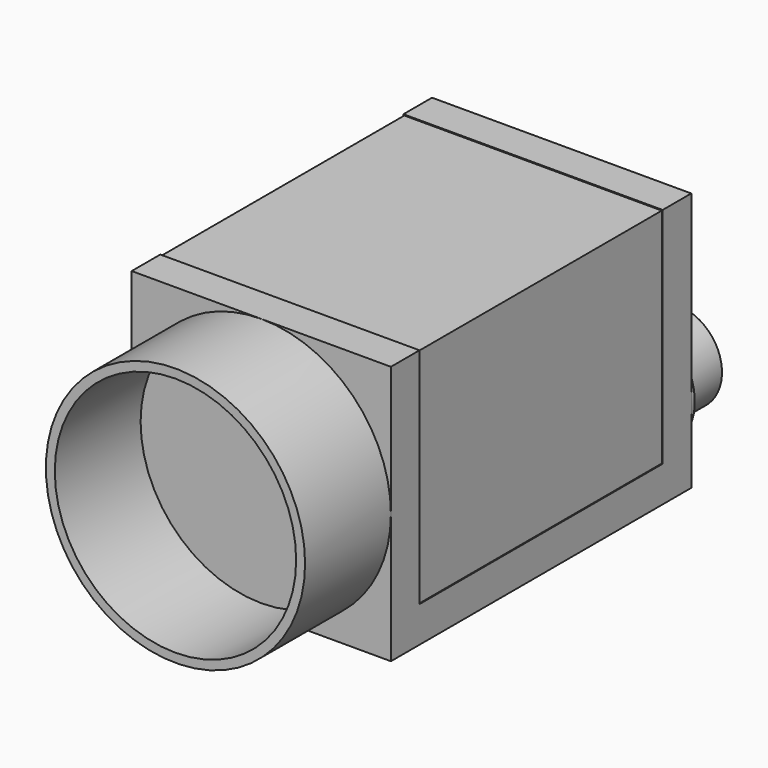
from build123d import *

# Parameters (mm, degrees)
F0_W      = 29
F0_H      = 29
F1_DEPTH  = 42
F2_R      = 14.5
F2_R_2    = 13.5
F3_DEPTH  = 12
F4_W      = 34
F4_H      = 25
F5_DEPTH  = 0.1
F6_W      = 34
F6_H      = 25
F7_DEPTH  = 0.1
F8_W      = 28.9
F8_H      = 34
F9_DEPTH  = 0.1
F11_D     = 3.3
F11_DEPTH = 3
F11_TIP   = 0.9914200214
F13_D     = 2.3
F13_DEPTH = 3
F13_TIP   = 0.6909897119
F14_R     = 6.6
F15_DEPTH = 0.5
F16_W     = 12
F16_H     = 10
F17_DEPTH = 0.5
F19_DEPTH = 10
F20_R     = 5
F20_R_2   = 4.2771578829
F21_DEPTH = 5.8


with BuildPart() as f1:
    # F0 (on Front) → F1 (new body)
    with BuildSketch(Plane.XZ):
        Rectangle(F0_W, F0_H)
    extrude(amount=F1_DEPTH)

    # F2 (on face) → F3 (join)
    with BuildSketch(Plane.XZ.offset(42)):
        Circle(F2_R)
        Circle(F2_R_2, mode=Mode.SUBTRACT)
    extrude(amount=F3_DEPTH)

    # F4 (on face) → F5 (cut)
    with BuildSketch(Plane.YZ.offset(14.5)):
        with Locations((-21, 2)):
            Rectangle(F4_W, F4_H)
    extrude(amount=-F5_DEPTH, mode=Mode.SUBTRACT)

    # F6 (on face) → F7 (cut)
    with BuildSketch(Plane(origin=(-14.5, 0, 0), x_dir=(0, -1, 0), z_dir=(-1, 0, 0))):
        with Locations((21, 2)):
            Rectangle(F6_W, F6_H)
    extrude(amount=-F7_DEPTH, mode=Mode.SUBTRACT)

    # F8 (on face) → F9 (cut)
    with BuildSketch(Plane.XY.offset(14.5)):
        with Locations((0.05, -21)):
            Rectangle(F8_W, F8_H)
    extrude(amount=-F9_DEPTH, mode=Mode.SUBTRACT)

    # F11
    with Locations(Plane(origin=(0, 0, -14.5), x_dir=(1, 0, 0), z_dir=(0, 0, -1))):
        with Locations((0, 15.3), (10, 39), (-10, 39)):
            Hole(F11_D / 2, depth=F11_DEPTH)
            with Locations((0, 0, -(F11_DEPTH + F11_TIP / 2))):  # 118° drill point
                Cone(0, F11_D / 2, F11_TIP, mode=Mode.SUBTRACT)

    # F13
    with Locations(Plane(origin=(0, 0, -14.5), x_dir=(1, 0, 0), z_dir=(0, 0, -1))):
        with Locations((6, 15.5), (-6, 15.5), (6, 37.5), (-6, 37.5)):
            Hole(F13_D / 2, depth=F13_DEPTH)
            with Locations((0, 0, -(F13_DEPTH + F13_TIP / 2))):  # 118° drill point
                Cone(0, F13_D / 2, F13_TIP, mode=Mode.SUBTRACT)

    # F14 (on face) → F15 (join)
    with BuildSketch(Plane(origin=(0, 0, 0), x_dir=(-1, 0, 0), z_dir=(0, 1, 0))):
        with Locations((-7.9, -6.2)):
            Circle(F14_R)
    extrude(amount=F15_DEPTH)

    # F16 (on face) → F17 (cut)
    with BuildSketch(Plane(origin=(0, 0, 0), x_dir=(-1, 0, 0), z_dir=(0, 1, 0))):
        with Locations((2.2, 8.5)):
            Rectangle(F16_W, F16_H)
    extrude(amount=-F17_DEPTH, mode=Mode.SUBTRACT)

    # F18 (on face) → F19 (cut)
    with BuildSketch(Plane(origin=(0, -0.5, 0), x_dir=(-1, 0, 0), z_dir=(0, 1, 0))):
        Polygon((-3.1485289801, 10.3262867779), (-3.1485289801, 4.1849459521), (7.6598110609, 4.1849459521), (7.6598110609, 10.3262867779), (5.341138225, 10.3262867779), (5.341138225, 11.5245990455), (4.3890266679, 11.5245990455), (4.3890266679, 12.9305869341), (0, 12.9305869341), (0, 11.5245990455), (-1.0954904137, 11.5245990455), (-1.0954904137, 10.3262867779), align=None)
    extrude(amount=-F19_DEPTH, mode=Mode.SUBTRACT)

    # F20 (on face) → F21 (join)
    with BuildSketch(Plane(origin=(0, 0.5, 0), x_dir=(-1, 0, 0), z_dir=(0, 1, 0))):
        with Locations((-7.9, -6.2)):
            Circle(F20_R)
        with Locations((-7.9, -6.2)):
            Circle(F20_R_2, mode=Mode.SUBTRACT)
    extrude(amount=F21_DEPTH)


solid = f1.part
